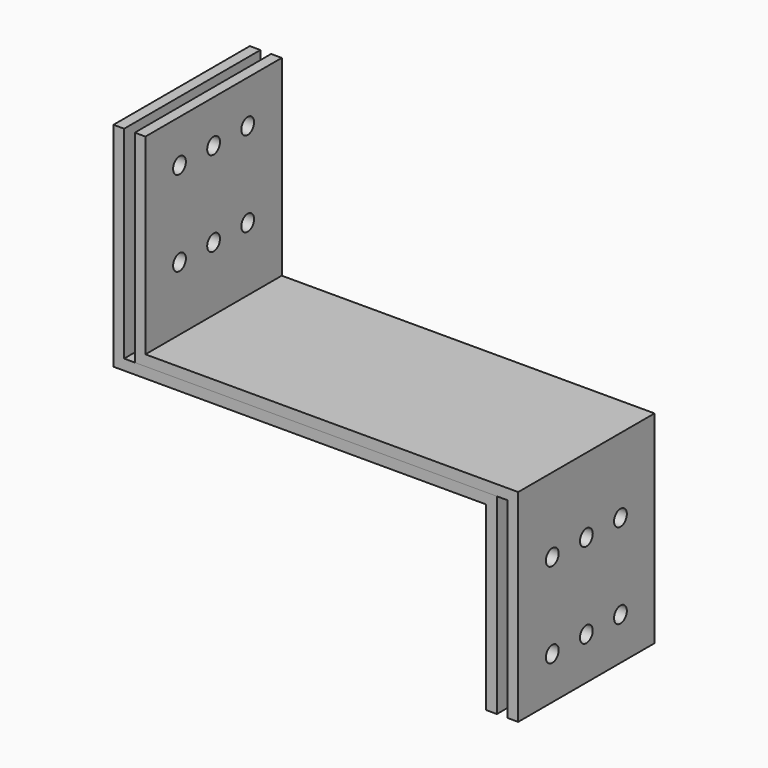
from build123d import *

# Parameters (mm, degrees)
F1_DEPTH = 50.8
F3_DEPTH = 50.8
F4_R     = 4.7625
F5_DEPTH = 241.301


with BuildPart() as f1:
    # F0 (on Front) → F1 (new body, symmetric)
    with BuildSketch(Plane.XZ):
        Polygon((101.969999, 5.443229), (101.969999, -102.506771), (108.319999, -102.506771), (108.319999, 11.793229), (-113.930001, 11.793229), (-113.930001, 132.443229), (-120.280001, 132.443229), (-120.280001, 5.443229), align=None)
    extrude(amount=F1_DEPTH, both=True)


with BuildPart() as f3:
    # F2 (on Front) → F3 (new body, symmetric)
    with BuildSketch(Plane.XZ):
        Polygon((114.669999, 11.793229), (114.669999, -102.506771), (121.019999, -102.506771), (121.019999, 18.143229), (-101.230001, 18.143229), (-101.230001, 132.443229), (-107.580001, 132.443229), (-107.580001, 11.793229), align=None)
    extrude(amount=F3_DEPTH, both=True)


with BuildPart() as f5_tool:
    # F4 (on face) → F5 (new body, through all)
    with BuildSketch(Plane.YZ.offset(121.019999)):
        with Locations((-25.4, -77.106771)):
            Circle(F4_R)
        with Locations((-25.4, 107.043229)):
            Circle(F4_R)
        with Locations((-25.4, 56.243229)):
            Circle(F4_R)
        with Locations((0, 107.043229)):
            Circle(F4_R)
        with Locations((0, 56.243229)):
            Circle(F4_R)
        with Locations((25.4, 107.043229)):
            Circle(F4_R)
        with Locations((25.4, 56.243229)):
            Circle(F4_R)
        with Locations((-25.4, -26.306771)):
            Circle(F4_R)
        with Locations((0, -77.106771)):
            Circle(F4_R)
        with Locations((0, -26.306771)):
            Circle(F4_R)
        with Locations((25.4, -77.106771)):
            Circle(F4_R)
        with Locations((25.4, -26.306771)):
            Circle(F4_R)
    extrude(amount=-F5_DEPTH)


with BuildPart() as f1_1:
    add(f1.part)

    # F5: cut by f5_tool
    add(f5_tool.part, mode=Mode.SUBTRACT)


with BuildPart() as f3_1:
    add(f3.part)

    # F5: cut by f5_tool
    add(f5_tool.part, mode=Mode.SUBTRACT)


solid = Compound([f1_1.part, f3_1.part])
